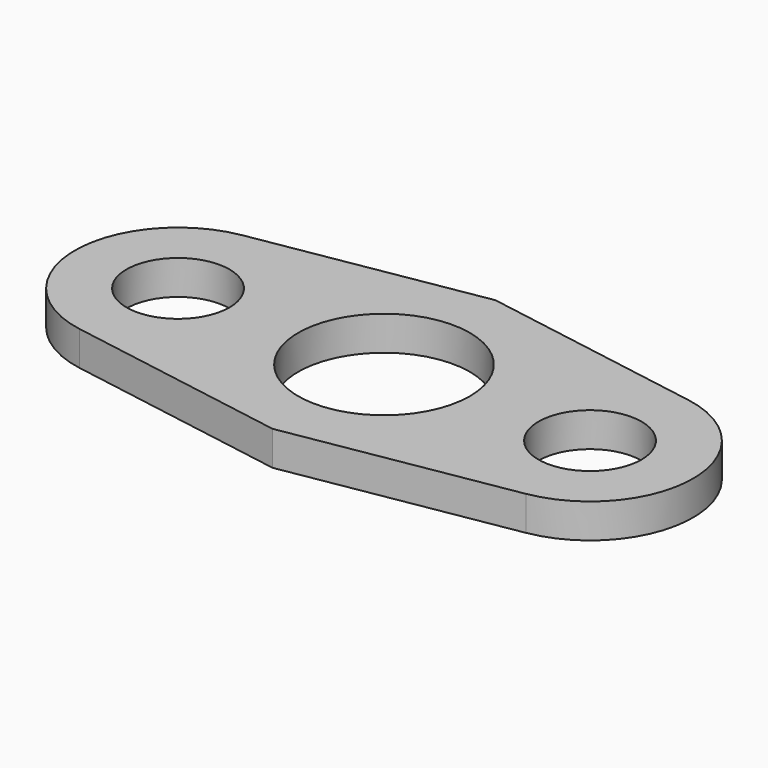
from build123d import *

# Parameters (mm, degrees)
F0_R     = 15
F0_R_2   = 25
F1_DEPTH = 10


with BuildPart() as f1:
    # F0 (on Top) → F1 (new body)
    with BuildSketch(Plane.XY):
        with BuildLine():
            Line((0, -40.567404), (65, -29.580399))
            ThreePointArc((65, -29.580399), (90, 0), (65, 29.580399))
            Line((65, 29.580399), (0, 40.567404))
            Line((0, 40.567404), (-65, 29.580399))
            ThreePointArc((-65, 29.580399), (-90, 0), (-65, -29.580399))
            Line((-65, -29.580399), (0, -40.567404))
        make_face()
        with Locations((-60, 0)):
            Circle(F0_R, mode=Mode.SUBTRACT)
        Circle(F0_R_2, mode=Mode.SUBTRACT)
        with Locations((60, 0)):
            Circle(F0_R, mode=Mode.SUBTRACT)
    extrude(amount=F1_DEPTH)


solid = f1.part
